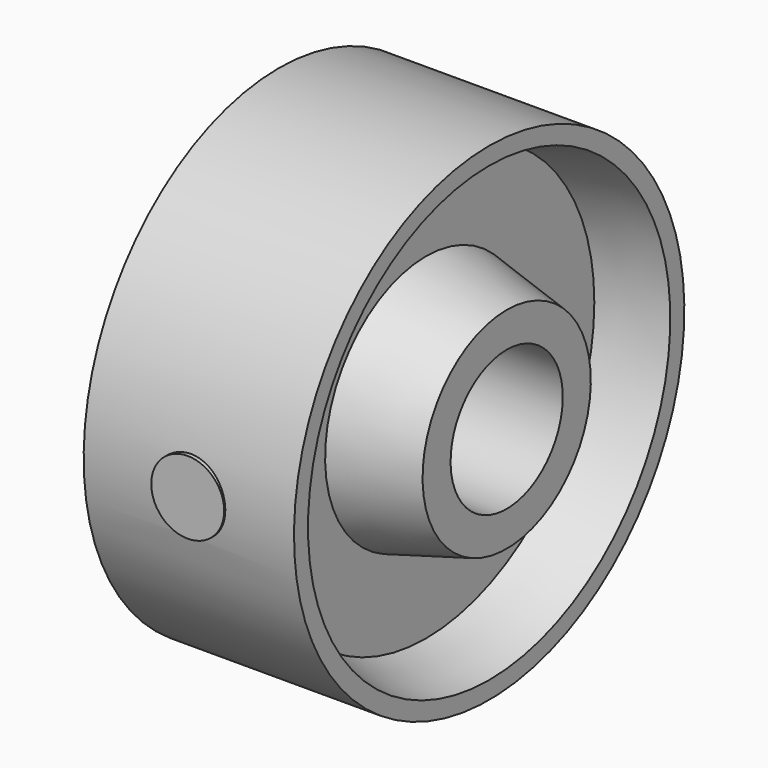
from build123d import *

# Parameters (mm, degrees)
F3_R     = 6.607149
F4_DEPTH = 44.45


with BuildPart() as f1:
    # F0 (on Front) → F1 (revolve)
    with BuildSketch(Plane.XZ):
        Polygon((-22.225, 12.7), (0, 12.7), (0, 44.196), (-19.05, 44.196), (-19.05, 41.021), (-7.62, 38.1), (-7.62, 22.86), (-22.225, 19.05), align=None)
    revolve(axis=Axis((-1.534584, 0, 0), (1, 0, 0)))

    # F2: F1 across face


with BuildPart() as f1_1:
    add(f1.part)
    add(f1.part.mirror(Plane.YZ))

    # F3 (on Front) → F4 (join)
    with BuildSketch(Plane.XZ):
        Circle(F3_R)
    extrude(amount=F4_DEPTH)


solid = f1_1.part
